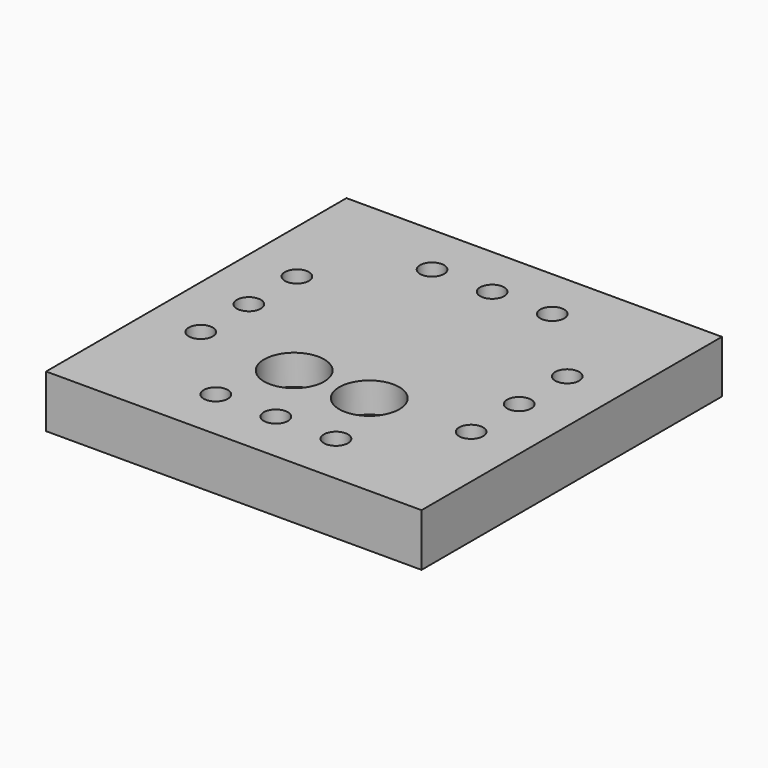
from build123d import *

# Parameters (mm, degrees)
F0_W           = 50
F0_H           = 50
F1_DEPTH       = 7
F3_D           = 3.2
F4_D           = 4.2
F4_CBORE_D     = 8
F4_CBORE_DEPTH = 4
F5_W           = 20
F5_H           = 7
F5_R           = 2.1
F6_DEPTH       = 1
F7_D           = 2
F7_DEPTH       = 1
F7_START       = 1
F7_TIP         = 0.600860619


with BuildPart() as f1:
    # F0 (on Top) → F1 (new body)
    with BuildSketch(Plane.XY):
        Rectangle(F0_W, F0_H)
    extrude(amount=F1_DEPTH)

    # F3 (through all)
    with Locations(Plane.XY.offset(7)):
        with Locations((-18, 8), (-18, 0), (-18, -8), (-8, -18), (0, -18), (8, -18), (18, -8), (18, 0), (18, 8), (-8, 18), (0, 18), (8, 18)):
            Hole(F3_D / 2)

    # F4 (through all)
    with Locations(Plane.XY.offset(7)):
        with Locations((-5, -8.7), (5, -8.7)):
            CounterBoreHole(F4_D / 2, F4_CBORE_D / 2, F4_CBORE_DEPTH)

    # F5 (on face) → F6 (cut)
    with BuildSketch(Plane(origin=(0, 0, 0), x_dir=(1, 0, 0), z_dir=(0, 0, -1))):
        with Locations((0, 8.7)):
            Rectangle(F5_W, F5_H)
        with Locations((-5, 8.7)):
            Circle(F5_R, mode=Mode.SUBTRACT)
        with Locations((5, 8.7)):
            Circle(F5_R, mode=Mode.SUBTRACT)
    extrude(amount=-F6_DEPTH, mode=Mode.SUBTRACT)

    # F7
    # its depths count from where the whole tool has entered the part; down to there all is cleared
    with Locations(Plane(origin=(0, 0, 0), x_dir=(1, 0, 0), z_dir=(0, 0, -1)).offset(-F7_START)):
        with Locations((-10, 5.2), (-10, 12.2), (10, 12.2), (10, 5.2)):
            Hole(F7_D / 2, depth=F7_DEPTH)
            with Locations((0, 0, -(F7_DEPTH + F7_TIP / 2))):  # 118° drill point
                Cone(0, F7_D / 2, F7_TIP, mode=Mode.SUBTRACT)


solid = f1.part
